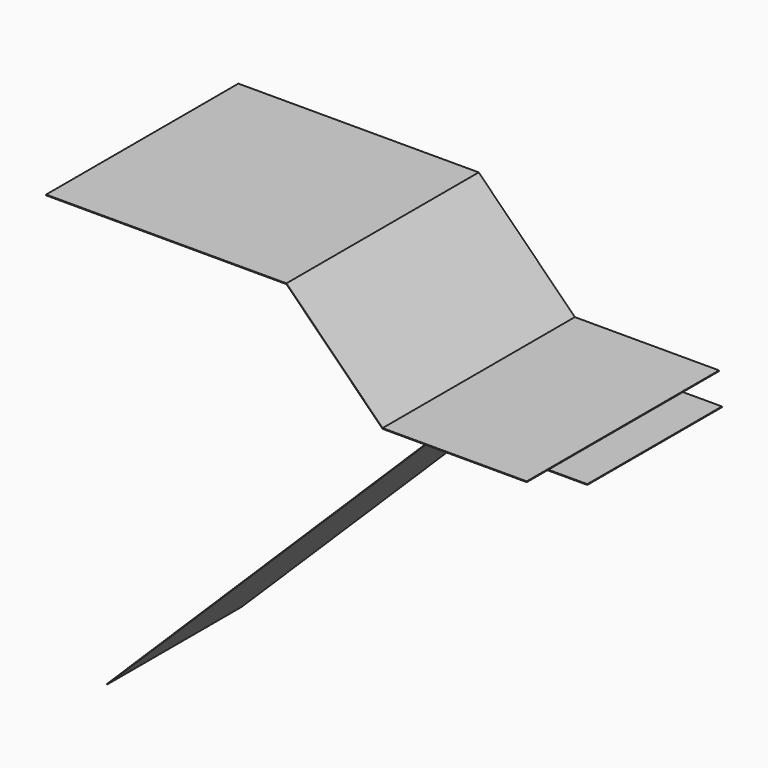
from build123d import *

# Parameters (mm, degrees)
F0_W     = 1000
F0_H     = 3
F1_DEPTH = 1000
F3_DEPTH = 700


with BuildPart() as f1:
    # F0 (on Front) → F1 (new body)
    with BuildSketch(Plane.XZ):
        with Locations((-645.085855, 281.348303)):
            Rectangle(F0_W, F0_H)
        Polygon((254.914145, -117.151697), (-145.085855, 282.848303), (-145.085855, 279.848303), (254.914145, -120.151697), (854.914145, -120.151697), (854.914145, -117.151697), align=None)
    extrude(amount=F1_DEPTH)


with BuildPart() as f3:
    # F2 (on Front) → F3 (new body)
    with BuildSketch(Plane.XZ):
        Polygon((866.823739, -248.456278), (866.823739, -245.456278), (266.823739, -245.456278), (-1133.176261, -1628.456278), (-1130.176261, -1628.456278), (266.823739, -248.456278), align=None)
    extrude(amount=F3_DEPTH)


solid = Compound([f1.part, f3.part])
